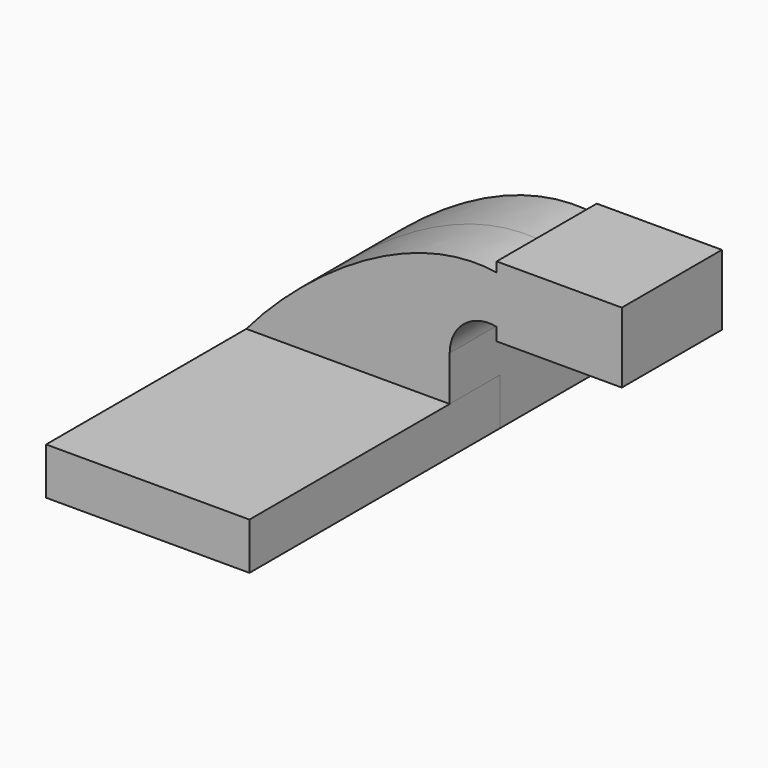
from build123d import *

# Parameters (mm, degrees)
F1_DEPTH  = 63.5
F1_FACE_W = 82.55
F1_FACE_H = 19.05
F2_DEPTH  = 25.4
F3_DEPTH  = 127


with BuildPart() as f1:
    # F0 (on Front) → F1 (new body, symmetric)
    with BuildSketch(Plane.XZ):
        Polygon((41.275, -9.525), (41.275, 9.525), (22.225, 9.525), (-41.275, 9.525), (-41.275, -9.525), align=None)
    extrude(amount=F1_DEPTH, both=True)

    # F0 (on Front) + F1_face (on face) → F2 (join, symmetric)
    with BuildSketch(Plane.XZ):
        Polygon((41.275, -9.525), (41.275, 9.525), (22.225, 9.525), (-41.275, 9.525), (-41.275, -9.525), align=None)
        with BuildLine():
            Line((22.225, 9.525), (41.275, 9.525))
            Line((41.275, 9.525), (41.275, 27.7477587237))
            ThreePointArc((41.275, 27.7477587237), (47.109768429, 40.0444808479), (60.325, 43.3020185904))
            Line((60.325, 43.3020185904), (60.325, 62.5281411253))
            ThreePointArc((60.325, 62.5281411253), (33.6035698035, 53.5415806584), (22.225, 27.7477587237))
            Line((22.225, 27.7477587237), (22.225, 9.525))
        make_face()
        with BuildLine():
            Line((-41.275, 9.525), (22.225, 9.525))
            Line((22.225, 9.525), (22.225, 27.7477587237))
            ThreePointArc((22.225, 27.7477587237), (33.6035698035, 53.5415806584), (60.325, 62.5281411253))
            Line((60.325, 62.5281411253), (60.325, 62.7084151164))
            add(Edge.make_bspline(
                [(-41.275, 9.525), (-20.3309781441, 34.5043759714), (23.0659828176, 68.4787866604), (60.325, 62.7084151164)],
                knots=[0, 0, 0, 0, 113.7868711882, 113.7868711882, 113.7868711882, 113.7868711882], degree=3))
        make_face()
        with BuildLine():
            ThreePointArc((61.9641609272, 42.8752), (61.1502770663, 43.1104866193), (60.325, 43.3020185904))
            Line((60.325, 43.3020185904), (60.325, 38.1))
            Line((60.325, 38.1), (111.125, 38.1))
            Line((111.125, 38.1), (111.125, 66.675))
            Line((111.125, 66.675), (60.325, 66.675))
            Line((60.325, 66.675), (60.325, 62.7084151164))
            add(Edge.make_bspline(
                [(60.325, 62.7084151164), (61.6709115762, 62.4999713504), (63.0088138781, 62.2396654496), (64.3373592373, 61.9252)],
                knots=[113.7868711882, 113.7868711882, 113.7868711882, 113.7868711882, 117.8972068529, 117.8972068529, 117.8972068529, 117.8972068529], degree=3))
            Line((64.3373592373, 61.9252), (85.725, 61.9252))
            Line((85.725, 61.9252), (85.725, 42.8752))
            Line((85.725, 42.8752), (61.9641609272, 42.8752))
        make_face()
        with BuildLine():
            Line((60.325, 62.5281411253), (60.325, 43.3020185904))
            ThreePointArc((60.325, 43.3020185904), (61.1502770663, 43.1104866193), (61.9641609272, 42.8752))
            Line((61.9641609272, 42.8752), (85.725, 42.8752))
            Line((85.725, 42.8752), (85.725, 61.9252))
            Line((85.725, 61.9252), (64.3373592373, 61.9252))
            ThreePointArc((64.3373592373, 61.9252), (62.3399428456, 62.2849867286), (60.325, 62.5281411253))
        make_face()
        with BuildLine():
            add(Edge.make_bspline(
                [(60.325, 62.7084151164), (61.6709115762, 62.4999713504), (63.0088138781, 62.2396654496), (64.3373592373, 61.9252)],
                knots=[113.7868711882, 113.7868711882, 113.7868711882, 113.7868711882, 117.8972068529, 117.8972068529, 117.8972068529, 117.8972068529], degree=3))
            Line((60.325, 62.7084151164), (60.325, 62.5281411253))
            ThreePointArc((60.325, 62.5281411253), (62.3399428456, 62.2849867286), (64.3373592373, 61.9252))
        make_face()
    with BuildSketch(Plane.XZ.offset(63.5)):
        Rectangle(F1_FACE_W, F1_FACE_H)
    extrude(amount=F2_DEPTH, both=True)


with BuildPart() as f3:
    # F0 (on Front) → F3 (new body)
    with BuildSketch(Plane.XZ):
        Polygon((41.275, -9.525), (41.275, 9.525), (22.225, 9.525), (-41.275, 9.525), (-41.275, -9.525), align=None)
    extrude(amount=F3_DEPTH)


solid = Compound([f1.part, f3.part])
